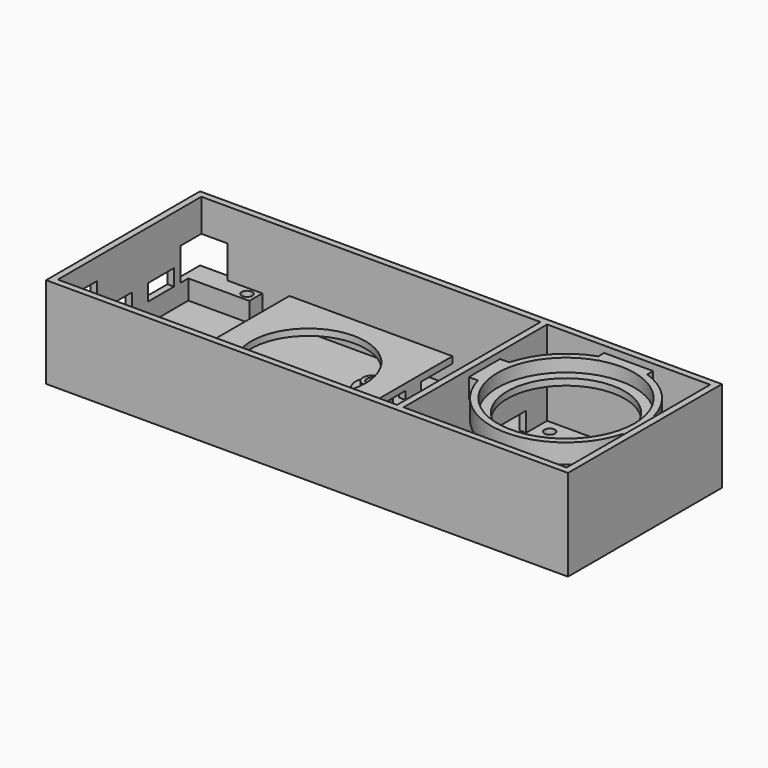
from build123d import *

# Parameters (mm, degrees)
SKETCH_W        = 108
SKETCH_H        = 59
SKETCH_W_2      = 104
SKETCH_H_2      = 55
PAD_DEPTH       = 20
SKETCH001_W     = 108
SKETCH001_H     = 59
PAD001_DEPTH    = 6
SKETCH002_W     = 108
SKETCH002_H     = 59
PAD002_DEPTH    = 2
PAD003_DEPTH    = 50
SKETCH005_W     = 59
SKETCH005_H     = 28
PAD004_DEPTH    = 2
SKETCH010_R     = 18
PAD005_DEPTH    = 2
SKETCH011_R     = 21
PAD006_DEPTH    = 4
SKETCH014_R     = 1.625
POCKET007_DEPTH = 8
SKETCH022_W     = 11
SKETCH022_H     = 13.5
SKETCH022_W_2   = 10
SKETCH022_H_2   = 5
POCKET_DEPTH    = 2
SKETCH023_R     = 1.625
POCKET008_DEPTH = 2
SKETCH024_R     = 2.75
PAD010_DEPTH    = 6
SKETCH025_R     = 1.625
POCKET009_DEPTH = 8
SKETCH026_R     = 1.625
POCKET010_DEPTH = 2
SKETCH027_W     = 6
SKETCH027_H     = 6.5
PAD011_DEPTH    = 6
SKETCH028_R     = 1.875
POCKET011_DEPTH = 8
SKETCH029_W     = 10
SKETCH029_H     = 10
POCKET012_DEPTH = 10
SKETCH030_W     = 36
SKETCH030_H     = 6
POCKET013_DEPTH = 2
SKETCH031_R     = 5
SKETCH031_R_2   = 1.625
PAD012_DEPTH    = 4.2
SKETCH032_R     = 3.25
POCKET014_DEPTH = 3
SKETCH033_R     = 1.625
POCKET015_DEPTH = 8
SKETCH017_W     = 50
SKETCH017_H     = 55
SKETCH017_R     = 17.5
PAD008_DEPTH    = 2
SKETCH018_W     = 7.5
SKETCH018_H     = 2
SKETCH018_W_2   = 2
SKETCH018_H_2   = 6
PAD009_DEPTH    = 2.5
SKETCH019_W     = 15
SKETCH019_H     = 2.5
POCKET006_DEPTH = 2


with BuildPart() as holder:
    # Sketch → Pad (new body)
    with BuildSketch(Plane.XY):
        Rectangle(SKETCH_W, SKETCH_H)
        Rectangle(SKETCH_W_2, SKETCH_H_2, mode=Mode.SUBTRACT)
    extrude(amount=PAD_DEPTH)

    # Sketch001 (on Face9 of Pad) → Pad001 (join)
    with BuildSketch(Plane(origin=(0, 0, 0), x_dir=(1, 0, 0), z_dir=(0, 0, -1))):
        Rectangle(SKETCH001_W, SKETCH001_H)
        Polygon((43, 27.5), (43, 21.5), (52, 21.5), (52, -27.5), (41.25, -27.5), (41.25, -20.5), (36.75, -20.5), (36.75, -27.5), (-33.3, -27.5), (-33.3, -22.5), (-52, -22.5), (-52, 22.5), (-47, 22.5), (-47, 27.5), align=None, mode=Mode.SUBTRACT)
    extrude(amount=PAD001_DEPTH)

    # Sketch002 (on Face9 of Pad001) → Pad002 (join)
    with BuildSketch(Plane(origin=(0, 0, -6), x_dir=(1, 0, 0), z_dir=(0, 0, -1))):
        Rectangle(SKETCH002_W, SKETCH002_H)
    extrude(amount=PAD002_DEPTH)

    # Sketch004 (on Face3 of Pad002) → Pad003 (join)
    with BuildSketch(Plane.YZ.offset(54)):
        Polygon((-29.5, 20), (-27.5, 20), (-27.5, -6), (27.5, -6), (27.5, 20), (29.5, 20), (29.5, -8), (-29.5, -8), align=None)
    extrude(amount=PAD003_DEPTH)

    # Sketch005 (on Face11 of Pad003) → Pad004 (join)
    with BuildSketch(Plane.YZ.offset(104)):
        with Locations((0, 6)):
            Rectangle(SKETCH005_W, SKETCH005_H)
    extrude(amount=PAD004_DEPTH)

    # Sketch010 (on DatumPlane) → Pad005 (join)
    with BuildSketch(Plane.XY.offset(12)):
        with BuildLine():
            ThreePointArc((56.796397, -2.5), (79, -19.5), (101.203603, -2.5))
            Line((104, -2.5), (101.203603, -2.5))
            Line((104, 9.5), (104, -2.5))
            Line((101.203603, 9.5), (104, 9.5))
            ThreePointArc((101.203603, 9.5), (95.808779, 19.199202), (86.5, 25.242815))
            Line((86.5, 27.5), (86.5, 25.242815))
            Line((71.5, 27.5), (86.5, 27.5))
            Line((71.5, 25.242815), (71.5, 27.5))
            ThreePointArc((71.5, 25.242815), (62.191221, 19.199202), (56.796397, 9.5))
            Line((56.796397, 9.5), (54, 9.5))
            Line((54, 9.5), (54, -2.5))
            Line((54, -2.5), (56.796397, -2.5))
        make_face()
        with Locations((79, 3.5)):
            Circle(SKETCH010_R, mode=Mode.SUBTRACT)
    extrude(amount=PAD005_DEPTH)

    # Sketch011 (on Face29 of Pad005) → Pad006 (join)
    with BuildSketch(Plane.XY.offset(14)):
        with BuildLine():
            Line((71.5, 25.242815), (71.5, 27.5))
            Line((71.5, 27.5), (86.5, 27.5))
            Line((86.5, 27.5), (86.5, 25.242815))
            ThreePointArc((101.203603, 9.5), (95.808779, 19.199202), (86.5, 25.242815))
            Line((101.203603, 9.5), (104, 9.5))
            Line((104, 9.5), (104, -2.5))
            Line((104, -2.5), (101.203603, -2.5))
            ThreePointArc((56.796397, -2.5), (79, -19.5), (101.203603, -2.5))
            Line((54, -2.5), (56.796397, -2.5))
            Line((54, 9.5), (54, -2.5))
            Line((56.796397, 9.5), (54, 9.5))
            ThreePointArc((71.5, 25.242815), (62.191221, 19.199202), (56.796397, 9.5))
        make_face()
        with Locations((79, 3.5)):
            Circle(SKETCH011_R, mode=Mode.SUBTRACT)
    extrude(amount=PAD006_DEPTH)

    # Sketch014 → Pocket007 (cut)
    with BuildSketch(Plane.XY):
        with Locations((45.7, -24.7)):
            Circle(SKETCH014_R)
        with Locations((-36, 25)):
            Circle(SKETCH014_R)
    extrude(amount=-POCKET007_DEPTH, mode=Mode.SUBTRACT)

    # Sketch022 (on Face2 of Pad006) → Pocket (cut)
    with BuildSketch(Plane(origin=(-54, 0, 0), x_dir=(0, -1, 0), z_dir=(-1, 0, 0))):
        with Locations((18, 6.75)):
            Rectangle(SKETCH022_W, SKETCH022_H)
        with Locations((-12, 2.5)):
            Rectangle(SKETCH022_W_2, SKETCH022_H_2)
        with Locations((4, 2.5)):
            Rectangle(SKETCH022_W_2, SKETCH022_H_2)
    extrude(amount=-POCKET_DEPTH, mode=Mode.SUBTRACT)

    # Sketch023 (on Face68 of Pocket007) → Pocket008 (cut)
    with BuildSketch(Plane.XY.offset(-6)):
        with Locations((-32, 2.5)):
            Circle(SKETCH023_R)
        with Locations((31, 2.5)):
            Circle(SKETCH023_R)
    extrude(amount=-POCKET008_DEPTH, mode=Mode.SUBTRACT)

    # Sketch024 (on Face81 of Pocket008) → Pad010 (join)
    with BuildSketch(Plane.XY.offset(-6)):
        with Locations((15.5, 8.5)):
            Circle(SKETCH024_R)
        with Locations((15.5, -19.5)):
            Circle(SKETCH024_R)
    extrude(amount=PAD010_DEPTH)

    # Sketch025 (on Face93 of Pad010) → Pocket009 (cut)
    with BuildSketch(Plane.XY):
        with Locations((15.5, 8.5)):
            Circle(SKETCH025_R)
        with Locations((15.5, -19.5)):
            Circle(SKETCH025_R)
    extrude(amount=-POCKET009_DEPTH, mode=Mode.SUBTRACT)

    # Sketch026 (on Face58 of Pocket009) → Pocket010 (cut)
    with BuildSketch(Plane.XY.offset(-6)):
        with Locations((100, 23.5)):
            Circle(SKETCH026_R)
        with Locations((58, 23.5)):
            Circle(SKETCH026_R)
    extrude(amount=-POCKET010_DEPTH, mode=Mode.SUBTRACT)

    # Sketch027 (on Face85 of Pocket010) → Pad011 (join)
    with BuildSketch(Plane.XY.offset(-6)):
        with Locations((-37.2, -24.25)):
            Rectangle(SKETCH027_W, SKETCH027_H)
    extrude(amount=PAD011_DEPTH)

    # Sketch028 (on Face53 of Pad011) → Pocket011 (cut)
    with BuildSketch(Plane.XY):
        with Locations((-37.2, -24.7)):
            Circle(SKETCH028_R)
    extrude(amount=-POCKET011_DEPTH, mode=Mode.SUBTRACT)

    # Sketch029 (on Face2 of Pocket011) → Pocket012 (cut)
    with BuildSketch(Plane(origin=(-54, 0, 0), x_dir=(0, -1, 0), z_dir=(-1, 0, 0))):
        with Locations((-24.5, 5)):
            Rectangle(SKETCH029_W, SKETCH029_H)
    extrude(amount=-POCKET012_DEPTH, mode=Mode.SUBTRACT)

    # Sketch030 (on Face77 of Pocket012) → Pocket013 (cut)
    with BuildSketch(Plane(origin=(52, 0, 0), x_dir=(0, -1, 0), z_dir=(-1, 0, 0))):
        with Locations((-1.5, -3)):
            Rectangle(SKETCH030_W, SKETCH030_H)
    extrude(amount=-POCKET013_DEPTH, mode=Mode.SUBTRACT)

    # Sketch031 (on Face46 of Pocket013) → Pad012 (join)
    with BuildSketch(Plane.XY.offset(-6)):
        with Locations((15.5, 8.5)):
            Circle(SKETCH031_R)
        with Locations((15.5, 8.5)):
            Circle(SKETCH031_R_2, mode=Mode.SUBTRACT)
        with Locations((15.5, -19.5)):
            Circle(SKETCH031_R)
        with Locations((15.5, -19.5)):
            Circle(SKETCH031_R_2, mode=Mode.SUBTRACT)
    extrude(amount=PAD012_DEPTH)

    # Sketch032 (on Face22 of Pad012) → Pocket014 (cut)
    with BuildSketch(Plane(origin=(0, 0, -8), x_dir=(1, 0, 0), z_dir=(0, 0, -1))):
        with Locations((15.5, 19.5)):
            Circle(SKETCH032_R)
        with Locations((15.5, -8.5)):
            Circle(SKETCH032_R)
    extrude(amount=-POCKET014_DEPTH, mode=Mode.SUBTRACT)

    # Sketch033 (on Face71 of Pocket014) → Pocket015 (cut)
    with BuildSketch(Plane.XY):
        with Locations((39, 25)):
            Circle(SKETCH033_R)
    extrude(amount=-POCKET015_DEPTH, mode=Mode.SUBTRACT)


with BuildPart() as speaker_cover:
    # Sketch017 → Pad008 (new body)
    with BuildSketch(Plane.XY):
        Rectangle(SKETCH017_W, SKETCH017_H)
        with Locations((0, 3.5)):
            Circle(SKETCH017_R, mode=Mode.SUBTRACT)
    extrude(amount=PAD008_DEPTH)

    # Sketch018 (on Face6 of Pad008) → Pad009 (join)
    with BuildSketch(Plane(origin=(0, 0, 0), x_dir=(1, 0, 0), z_dir=(0, 0, -1))):
        with Locations((11.25, -26.5)):
            Rectangle(SKETCH018_W, SKETCH018_H)
        with Locations((24, -12.5)):
            Rectangle(SKETCH018_W_2, SKETCH018_H_2)
        with Locations((24, 5.5)):
            Rectangle(SKETCH018_W_2, SKETCH018_H_2)
    pad009 = extrude(amount=PAD009_DEPTH)

    # Mirrored: Pad009 across YZ
    add(pad009.mirror(Plane.YZ))

    # Sketch019 (on Face7 of Mirrored) → Pocket006 (cut)
    with BuildSketch(Plane.XY.offset(2)):
        with Locations((0, -26.25)):
            Rectangle(SKETCH019_W, SKETCH019_H)
    extrude(amount=-POCKET006_DEPTH, mode=Mode.SUBTRACT)


solid = Compound([holder.part, speaker_cover.part])
